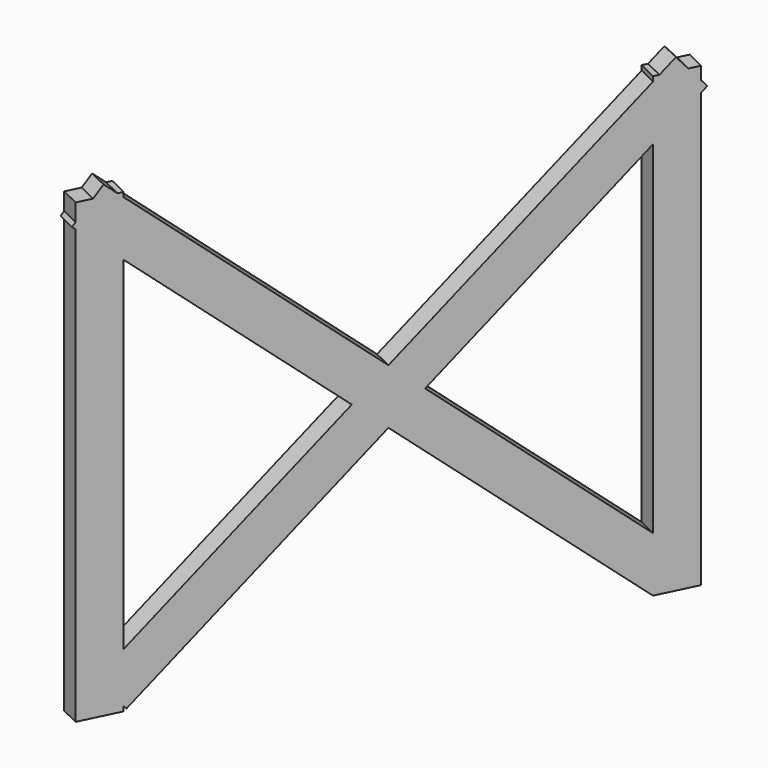
from build123d import *

# Parameters (mm, degrees)
BOX212_W                  = 0.5
BOX212_H                  = 1
BOX212_DEPTH              = 11
BOX213_W                  = 0.5
BOX213_H                  = 1
BOX213_DEPTH              = 16
BOX213_ROLL_ANGLE         = 49
BOX214_W                  = 0.5
BOX214_H                  = 1
BOX214_DEPTH              = 16
BOX214_ROLL_ANGLE         = -49
BOX211_W                  = 0.5
BOX211_H                  = 1
BOX211_DEPTH              = 11
FUSION015_PLACEMENT_ANGLE = -26


with BuildPart() as cubo212:
    # Box212 → Box212 (new body)
    with BuildSketch(Plane(origin=(0, 12, 0.5), x_dir=(1, 0, 0), z_dir=(0, 0, 1))):
        with Locations((0.25, 0.5)):
            Rectangle(BOX212_W, BOX212_H)
    extrude(amount=BOX212_DEPTH)


with BuildPart() as cubo213:
    # Box213 → Box213 (new body)
    with BuildSketch(Plane.XY):
        with Locations((0.25, 0.5)):
            Rectangle(BOX213_W, BOX213_H)
    extrude(amount=BOX213_DEPTH)


with BuildPart() as cubo213_1:
    # Box213 roll: moved
    add(cubo213.part.rotate(Axis((0, 0, 0), (1, 0, 0)), BOX213_ROLL_ANGLE))


with BuildPart() as cubo213_2:
    # Box213 placement: moved
    add(cubo213_1.part.moved(Location((0, 12, 0.5))))


with BuildPart() as cubo214:
    # Box214 → Box214 (new body)
    with BuildSketch(Plane.XY):
        with Locations((0.25, 0.5)):
            Rectangle(BOX214_W, BOX214_H)
    extrude(amount=BOX214_DEPTH)


with BuildPart() as cubo214_1:
    # Box214 roll: moved
    add(cubo214.part.rotate(Axis((0, 0, 0), (1, 0, 0)), BOX214_ROLL_ANGLE))


with BuildPart() as cubo214_2:
    # Box214 placement: moved
    add(cubo214_1.part.moved(Location((0, 0.4, 1.3))))


with BuildPart() as fusion015:
    # Box211 → Box211 (new body)
    with BuildSketch(Plane.XY.offset(0.5)):
        with Locations((0.25, 0.5)):
            Rectangle(BOX211_W, BOX211_H)
    extrude(amount=BOX211_DEPTH)

    # Fusion015: union Cubo212, Cubo213, Cubo214
    add(cubo212.part)
    add(cubo213_2.part)
    add(cubo214_2.part)


with BuildPart() as fusion015_1:
    # Fusion015 placement: moved
    add(fusion015.part.moved(Location((-215.1, 93, 0))).rotate(Axis((-215.1, 93, 0), (0, 0, 1)), FUSION015_PLACEMENT_ANGLE))


solid = fusion015_1.part
